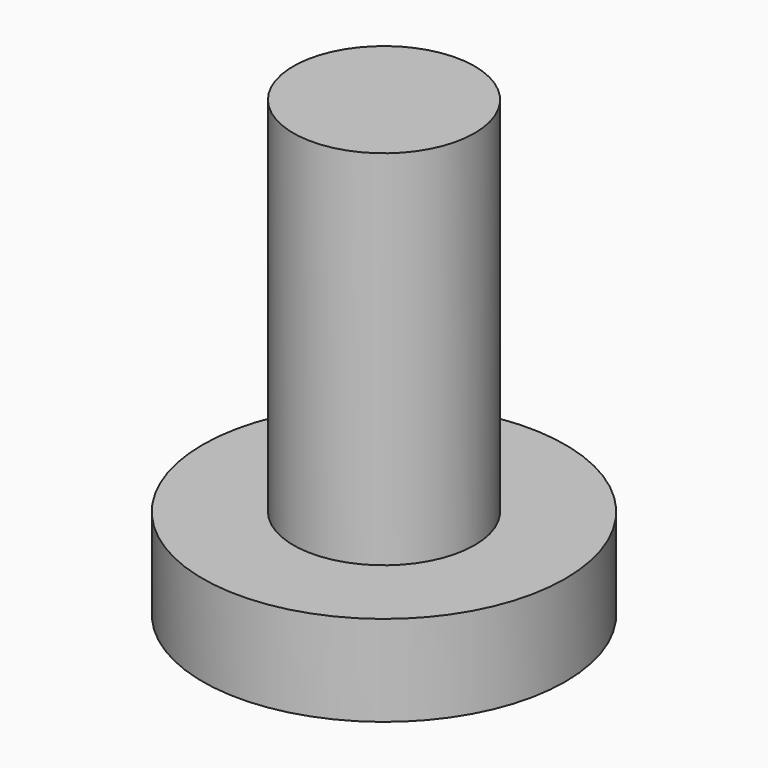
from build123d import *

# Parameters (mm, degrees)
F0_R     = 2
F2_DEPTH = 1
F1_R     = 1
F3_DEPTH = 5


with BuildPart() as f2:
    # F0 (on Top) → F2 (new body)
    with BuildSketch(Plane.XY):
        Circle(F0_R)
    extrude(amount=F2_DEPTH)

    # F1 (on face) → F3 (join)
    with BuildSketch(Plane.XY):
        Circle(F1_R)
    extrude(amount=F3_DEPTH)


solid = f2.part
